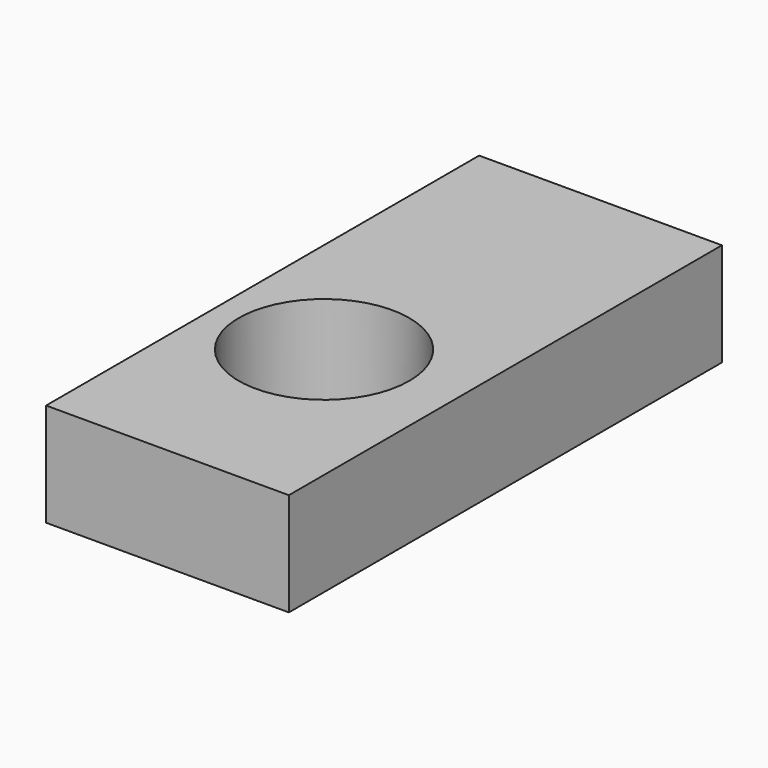
from build123d import *

# Parameters (mm, degrees)
F0_W     = 56.964995
F0_H     = 24.213171
F1_DEPTH = 127
F2_R     = 20
F3_DEPTH = 25


with BuildPart() as f1:
    # F0 (on Front) → F1 (new body)
    with BuildSketch(Plane.XZ):
        with Locations((-58.307989, 12.106585)):
            Rectangle(F0_W, F0_H)
    extrude(amount=F1_DEPTH)

    # F2 (on face) → F3 (cut)
    with BuildSketch(Plane.XY.offset(24.213171)):
        with Locations((-60.92478, -77.814035)):
            Circle(F2_R)
    extrude(amount=-F3_DEPTH, mode=Mode.SUBTRACT)


solid = f1.part
